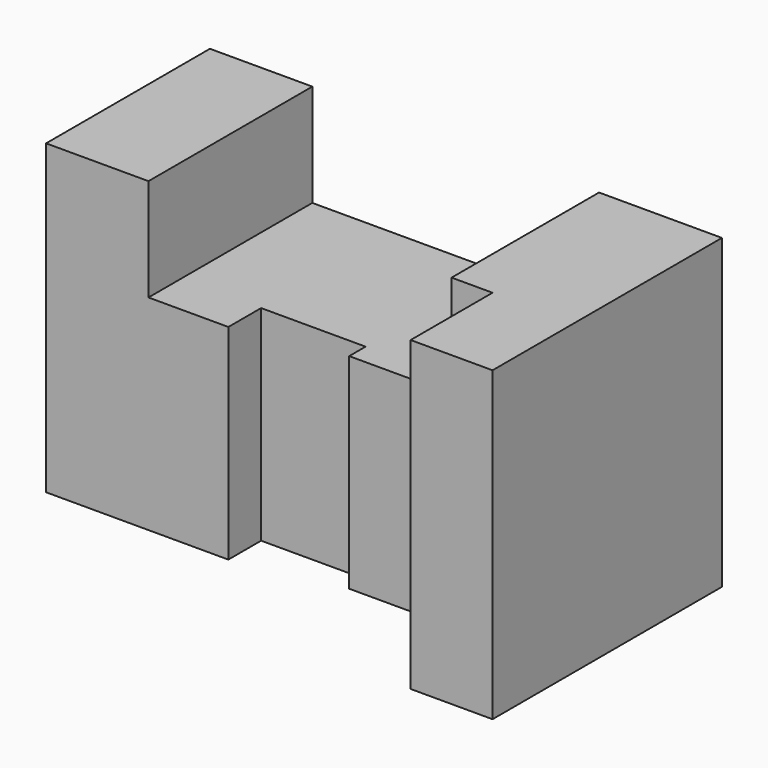
from build123d import *

# Parameters (mm, degrees)
F0_W     = 70
F0_H     = 75
F1_DEPTH = 125
F3_START = -20
F2_W     = 20
F2_H     = 75
F3_DEPTH = 105.001
F5_START = -55
F4_W     = 10
F4_H     = 75
F5_DEPTH = 25.5
F7_START = -30
F6_W     = 70
F6_H     = 25
F7_DEPTH = 70
F9_START = -20
F8_W     = 5
F8_H     = 75
F9_DEPTH = 60.5


with BuildPart() as f1:
    # F0 (on Right) → F1 (new body)
    with BuildSketch(Plane.YZ):
        with Locations((35, 37.5)):
            Rectangle(F0_W, F0_H)
    extrude(amount=F1_DEPTH)

    # F2 (on face) → F3 (cut)
    with BuildSketch(Plane.YZ.offset(125).offset(F3_START)):
        with Locations((10, 37.5)):
            Rectangle(F2_W, F2_H)
    extrude(amount=-F3_DEPTH, mode=Mode.SUBTRACT)

    # F4 (on face) → F5 (cut)
    with BuildSketch(Plane.YZ.offset(125).offset(F5_START)):
        with Locations((25, 37.5)):
            Rectangle(F4_W, F4_H)
    extrude(amount=-F5_DEPTH, mode=Mode.SUBTRACT)

    # F6 (on face) → F7 (cut)
    with BuildSketch(Plane.YZ.offset(125).offset(F7_START)):
        with Locations((35, 62.5)):
            Rectangle(F6_W, F6_H)
    extrude(amount=-F7_DEPTH, mode=Mode.SUBTRACT)

    # F8 (on face) → F9 (cut)
    with BuildSketch(Plane.YZ.offset(125).offset(F9_START)):
        with Locations((22.5, 37.5)):
            Rectangle(F8_W, F8_H)
    extrude(amount=-F9_DEPTH, mode=Mode.SUBTRACT)


solid = f1.part
